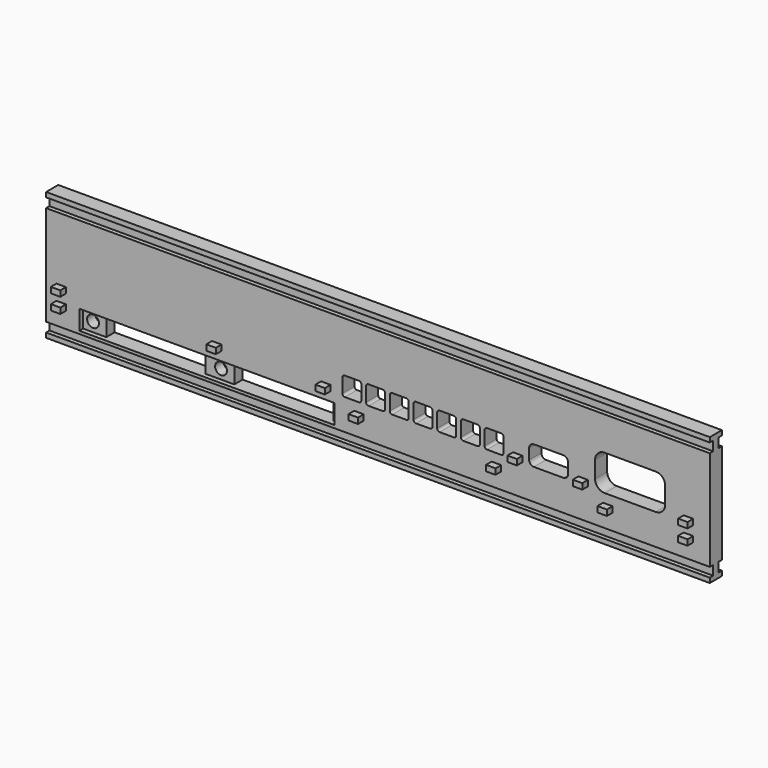
from build123d import *

# Parameters (mm, degrees)
F1_DEPTH = 70
F2_R     = 1.25
F2_W     = 20.9
F2_H     = 3.6
F3_DEPTH = 4
F4_DEPTH = 1
F2_W_2   = 2
F2_H_2   = 1.2
F5_DEPTH = 1.5


with BuildPart() as f1:
    # F0 (on Right) → F1 (new body, symmetric)
    with BuildSketch(Plane.YZ):
        Polygon((-1.6, 10.55), (-1.6, 0), (-1.6, -10.55), (-0.7, -10.55), (-0.7, -12.55), (-1.6, -12.55), (-1.6, -13.55), (0, -13.55), (1.6, -13.55), (1.6, -12.55), (0.7, -12.55), (0.7, -10.55), (1.6, -10.55), (1.6, 0), (1.6, 10.55), (0.7, 10.55), (0.7, 12.55), (1.6, 12.55), (1.6, 13.55), (0, 13.55), (-1.6, 13.55), (-1.6, 12.55), (-0.7, 12.55), (-0.7, 10.55), align=None)
    extrude(amount=F1_DEPTH, both=True)

    # F2 (on face) → F3 (cut)
    with BuildSketch(Plane.XZ.offset(1.6)):
        with BuildLine():
            Line((-7, -4.05), (-4, -4.05))
            ThreePointArc((-4, -4.05), (-3.646447, -3.903553), (-3.5, -3.55))
            Line((-3.5, -3.55), (-3.5, -0.55))
            ThreePointArc((-3.5, -0.55), (-3.646447, -0.196447), (-4, -0.05))
            Line((-4, -0.05), (-7, -0.05))
            ThreePointArc((-7, -0.05), (-7.353553, -0.196447), (-7.5, -0.55))
            Line((-7.5, -0.55), (-7.5, -3.55))
            ThreePointArc((-7.5, -3.55), (-7.353553, -3.903553), (-7, -4.05))
        make_face()
        with BuildLine():
            ThreePointArc((1.5, -0.55), (1.353553, -0.196447), (1, -0.05))
            Line((1, -0.05), (-2, -0.05))
            ThreePointArc((-2, -0.05), (-2.353553, -0.196447), (-2.5, -0.55))
            Line((-2.5, -0.55), (-2.5, -3.55))
            ThreePointArc((-2.5, -3.55), (-2.353553, -3.903553), (-2, -4.05))
            Line((-2, -4.05), (1, -4.05))
            ThreePointArc((1, -4.05), (1.353553, -3.903553), (1.5, -3.55))
            Line((1.5, -3.55), (1.5, -0.55))
        make_face()
        with BuildLine():
            ThreePointArc((6.5, -0.55), (6.353553, -0.196447), (6, -0.05))
            Line((6, -0.05), (3, -0.05))
            ThreePointArc((3, -0.05), (2.646447, -0.196447), (2.5, -0.55))
            Line((2.5, -0.55), (2.5, -3.55))
            ThreePointArc((2.5, -3.55), (2.646447, -3.903553), (3, -4.05))
            Line((3, -4.05), (6, -4.05))
            ThreePointArc((6, -4.05), (6.353553, -3.903553), (6.5, -3.55))
            Line((6.5, -3.55), (6.5, -0.55))
        make_face()
        with BuildLine():
            ThreePointArc((11.5, -0.55), (11.353553, -0.196447), (11, -0.05))
            Line((11, -0.05), (8, -0.05))
            ThreePointArc((8, -0.05), (7.646447, -0.196447), (7.5, -0.55))
            Line((7.5, -0.55), (7.5, -3.55))
            ThreePointArc((7.5, -3.55), (7.646447, -3.903553), (8, -4.05))
            Line((8, -4.05), (11, -4.05))
            ThreePointArc((11, -4.05), (11.353553, -3.903553), (11.5, -3.55))
            Line((11.5, -3.55), (11.5, -0.55))
        make_face()
        with BuildLine():
            ThreePointArc((16.5, -0.55), (16.353553, -0.196447), (16, -0.05))
            Line((16, -0.05), (13, -0.05))
            ThreePointArc((13, -0.05), (12.646447, -0.196447), (12.5, -0.55))
            Line((12.5, -0.55), (12.5, -3.55))
            ThreePointArc((12.5, -3.55), (12.646447, -3.903553), (13, -4.05))
            Line((13, -4.05), (16, -4.05))
            ThreePointArc((16, -4.05), (16.353553, -3.903553), (16.5, -3.55))
            Line((16.5, -3.55), (16.5, -0.55))
        make_face()
        with BuildLine():
            ThreePointArc((21.5, -0.55), (21.353553, -0.196447), (21, -0.05))
            Line((21, -0.05), (18, -0.05))
            ThreePointArc((18, -0.05), (17.646447, -0.196447), (17.5, -0.55))
            Line((17.5, -0.55), (17.5, -3.55))
            ThreePointArc((17.5, -3.55), (17.646447, -3.903553), (18, -4.05))
            Line((18, -4.05), (21, -4.05))
            ThreePointArc((21, -4.05), (21.353553, -3.903553), (21.5, -3.55))
            Line((21.5, -3.55), (21.5, -0.55))
        make_face()
        with BuildLine():
            ThreePointArc((26.5, -0.55), (26.353553, -0.196447), (26, -0.05))
            Line((26, -0.05), (23, -0.05))
            ThreePointArc((23, -0.05), (22.646447, -0.196447), (22.5, -0.55))
            Line((22.5, -0.55), (22.5, -3.55))
            ThreePointArc((22.5, -3.55), (22.646447, -3.903553), (23, -4.05))
            Line((23, -4.05), (26, -4.05))
            ThreePointArc((26, -4.05), (26.353553, -3.903553), (26.5, -3.55))
            Line((26.5, -3.55), (26.5, -0.55))
        make_face()
        with BuildLine():
            Line((32.9, -4.05), (39.1, -4.05))
            ThreePointArc((39.1, -4.05), (39.807107, -3.757107), (40.1, -3.05))
            Line((40.1, -3.05), (40.1, -0.85))
            ThreePointArc((40.1, -0.85), (39.807107, -0.142893), (39.1, 0.15))
            Line((39.1, 0.15), (32.9, 0.15))
            ThreePointArc((32.9, 0.15), (32.192893, -0.142893), (31.9, -0.85))
            Line((31.9, -0.85), (31.9, -3.05))
            ThreePointArc((31.9, -3.05), (32.192893, -3.757107), (32.9, -4.05))
        make_face()
        with BuildLine():
            Line((47.8, -4.05), (58.6, -4.05))
            ThreePointArc((58.6, -4.05), (60.014214, -3.464214), (60.6, -2.05))
            Line((60.6, -2.05), (60.6, 1.45))
            ThreePointArc((60.6, 1.45), (60.014214, 2.864214), (58.6, 3.45))
            Line((58.6, 3.45), (47.8, 3.45))
            ThreePointArc((47.8, 3.45), (46.385786, 2.864214), (45.8, 1.45))
            Line((45.8, 1.45), (45.8, -2.05))
            ThreePointArc((45.8, -2.05), (46.385786, -3.464214), (47.8, -4.05))
        make_face()
        with Locations((-33.9, -7.9)):
            Circle(F2_R)
        with Locations((-20.65, -8.15)):
            Rectangle(F2_W, F2_H)
        with Locations((-47.65, -8.15)):
            Rectangle(F2_W, F2_H)
        with Locations((-60.9, -7.9)):
            Circle(F2_R)
    extrude(amount=-F3_DEPTH, mode=Mode.SUBTRACT)

    # F2 (on face) → F4 (cut)
    with BuildSketch(Plane.XZ.offset(1.6)):
        Polygon((-10.2, -9.95), (-9.2, -9.95), (-9.2, -5.85), (-63, -5.85), (-63, -9.95), (-58.1, -9.95), (-58.1, -6.35), (-37.2, -6.35), (-37.2, -9.95), (-31.1, -9.95), (-31.1, -6.35), (-10.2, -6.35), align=None)
        with Locations((-60.9, -7.9)):
            Circle(F2_R, mode=Mode.SUBTRACT)
        with Locations((-33.9, -7.9)):
            Circle(F2_R, mode=Mode.SUBTRACT)
    extrude(amount=-F4_DEPTH, mode=Mode.SUBTRACT)

    # F2 (on face) → F5 (join)
    with BuildSketch(Plane.XZ.offset(1.6)):
        with Locations((-66.8, -3.35)):
            Rectangle(F2_W_2, F2_H_2)
        with Locations((-66.8, -6.55)):
            Rectangle(F2_W_2, F2_H_2)
        with Locations((-34, -3.35)):
            Rectangle(F2_W_2, F2_H_2)
        with Locations((-11, -3.35)):
            Rectangle(F2_W_2, F2_H_2)
        with Locations((-4, -6.55)):
            Rectangle(F2_W_2, F2_H_2)
        with Locations((25, -6.55)):
            Rectangle(F2_W_2, F2_H_2)
        with Locations((29.5, -3.35)):
            Rectangle(F2_W_2, F2_H_2)
        with Locations((43.3, -3.35)):
            Rectangle(F2_W_2, F2_H_2)
        with Locations((48.5, -6.55)):
            Rectangle(F2_W_2, F2_H_2)
        with Locations((65.5, -3.35)):
            Rectangle(F2_W_2, F2_H_2)
        with Locations((65.5, -6.55)):
            Rectangle(F2_W_2, F2_H_2)
    extrude(amount=F5_DEPTH)


solid = f1.part
